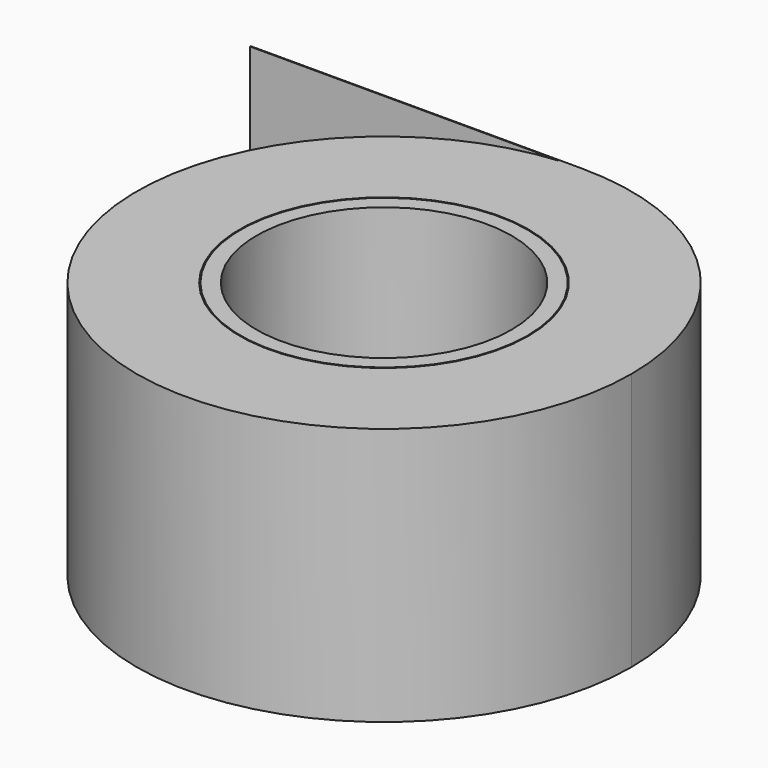
from build123d import *

# Parameters (mm, degrees)
F0_R     = 73.025
F0_R_2   = 42.635722
F1_DEPTH = 76.2
F2_R     = 42.350853
F2_R_2   = 37.656168
F3_DEPTH = 76.2
F6_DEPTH = 0.254


with BuildPart() as f1:
    # F0 (on Top) → F1 (new body)
    with BuildSketch(Plane.XY):
        Circle(F0_R)
        Circle(F0_R_2, mode=Mode.SUBTRACT)
    extrude(amount=F1_DEPTH)

    # F5 (on offset) → F6 (join)
    with BuildSketch(Plane.XZ.offset(-73.025)):
        Polygon((-97.832054, 0), (0, 0), (0, 76.2), (-73.025, 76.2), (-97.832054, 76.2), align=None)
    extrude(amount=F6_DEPTH)


with BuildPart() as f3:
    # F2 (on Top) → F3 (new body)
    with BuildSketch(Plane.XY):
        Circle(F2_R)
        Circle(F2_R_2, mode=Mode.SUBTRACT)
    extrude(amount=F3_DEPTH)


solid = Compound([f1.part, f3.part])
